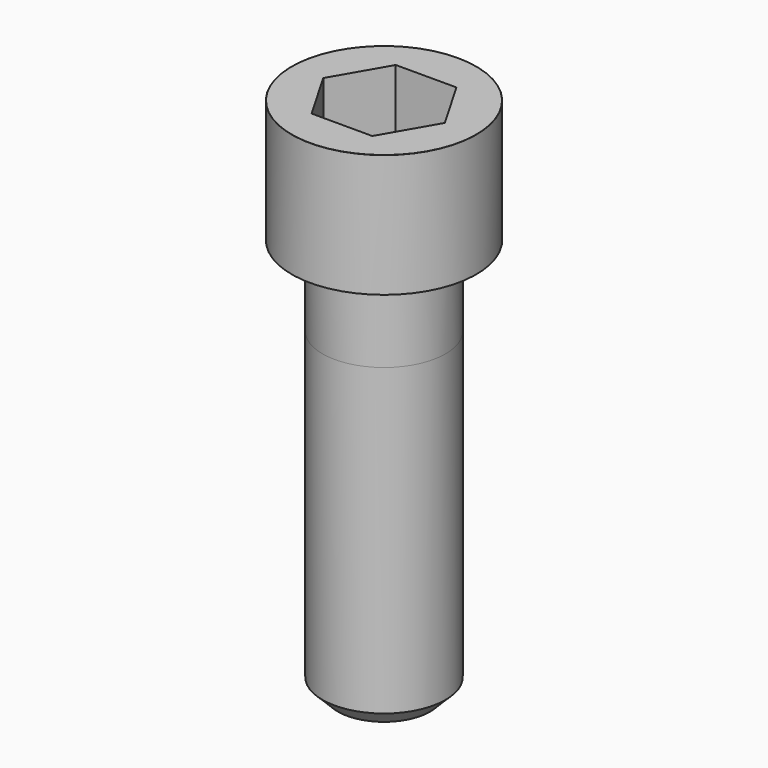
from build123d import *

# Parameters (mm, degrees)
POCKET_DEPTH = 17.1


with BuildPart() as part:
    # Sketch → Revolve (revolve)
    with BuildSketch(Plane.YZ):
        with BuildLine():
            Line((9.999, 0), (15, 0))
            Line((15, 0), (15, 19.97229))
            ThreePointArc((15, 19.97229), (14.991884, 19.991884), (14.97229, 20))
            Line((14.97229, 20), (0, 20))
            Line((0, -65), (0, 20))
            Line((7.5, -65), (0, -65))
            Line((10, -62.5), (7.5, -65))
            Line((10, -13), (10, -62.5))
            Line((9.999, 0), (10, -13))
        make_face()
    revolve(axis=Axis((0, 0, 0), (0, 0, 1)))

    # Sketch001 → Pocket (cut)
    with BuildSketch(Plane.XY.offset(20)):
        Polygon((9.87269, 0), (4.936345, 8.55), (-4.936345, 8.55), (-9.87269, 0), (-4.936345, -8.55), (4.936345, -8.55), align=None)
    extrude(amount=-POCKET_DEPTH, mode=Mode.SUBTRACT)


solid = part.part
